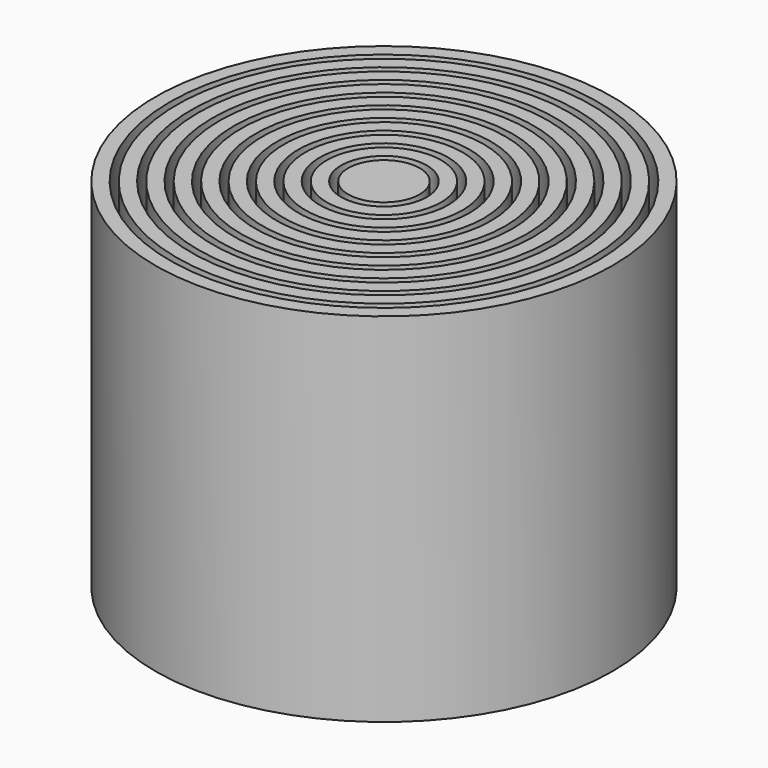
from build123d import *

# Parameters (mm, degrees)
F0_R     = 2.5
F1_DEPTH = 25
F0_R_2   = 4
F0_R_3   = 3
F0_R_4   = 5.5
F0_R_5   = 4.5
F0_R_6   = 7
F0_R_7   = 6
F0_R_8   = 8.5
F0_R_9   = 7.5
F0_R_10  = 10
F0_R_11  = 9
F0_R_12  = 11.5
F0_R_13  = 10.5
F0_R_14  = 13
F0_R_15  = 12
F0_R_16  = 14.5
F0_R_17  = 13.5
F0_R_18  = 16
F0_R_19  = 15


with BuildPart() as f1:
    # F0 (on Top) → F1 (new body)
    with BuildSketch(Plane.XY):
        Circle(F0_R)
    extrude(amount=F1_DEPTH)


with BuildPart() as f1b:
    # F0 (on Top) → F1, piece 2 (new body)
    with BuildSketch(Plane.XY):
        Circle(F0_R_2)
        Circle(F0_R_3, mode=Mode.SUBTRACT)
    extrude(amount=F1_DEPTH)


with BuildPart() as f1c:
    # F0 (on Top) → F1, piece 3 (new body)
    with BuildSketch(Plane.XY):
        Circle(F0_R_4)
        Circle(F0_R_5, mode=Mode.SUBTRACT)
    extrude(amount=F1_DEPTH)


with BuildPart() as f1d:
    # F0 (on Top) → F1, piece 4 (new body)
    with BuildSketch(Plane.XY):
        Circle(F0_R_6)
        Circle(F0_R_7, mode=Mode.SUBTRACT)
    extrude(amount=F1_DEPTH)


with BuildPart() as f1e:
    # F0 (on Top) → F1, piece 5 (new body)
    with BuildSketch(Plane.XY):
        Circle(F0_R_8)
        Circle(F0_R_9, mode=Mode.SUBTRACT)
    extrude(amount=F1_DEPTH)


with BuildPart() as f1f:
    # F0 (on Top) → F1, piece 6 (new body)
    with BuildSketch(Plane.XY):
        Circle(F0_R_10)
        Circle(F0_R_11, mode=Mode.SUBTRACT)
    extrude(amount=F1_DEPTH)


with BuildPart() as f1g:
    # F0 (on Top) → F1, piece 7 (new body)
    with BuildSketch(Plane.XY):
        Circle(F0_R_12)
        Circle(F0_R_13, mode=Mode.SUBTRACT)
    extrude(amount=F1_DEPTH)


with BuildPart() as f1h:
    # F0 (on Top) → F1, piece 8 (new body)
    with BuildSketch(Plane.XY):
        Circle(F0_R_14)
        Circle(F0_R_15, mode=Mode.SUBTRACT)
    extrude(amount=F1_DEPTH)


with BuildPart() as f1i:
    # F0 (on Top) → F1, piece 9 (new body)
    with BuildSketch(Plane.XY):
        Circle(F0_R_16)
        Circle(F0_R_17, mode=Mode.SUBTRACT)
    extrude(amount=F1_DEPTH)


with BuildPart() as f1j:
    # F0 (on Top) → F1, piece 10 (new body)
    with BuildSketch(Plane.XY):
        Circle(F0_R_18)
        Circle(F0_R_19, mode=Mode.SUBTRACT)
    extrude(amount=F1_DEPTH)


solid = Compound([f1.part, f1b.part, f1c.part, f1d.part, f1e.part, f1f.part, f1g.part, f1h.part, f1i.part, f1j.part])
